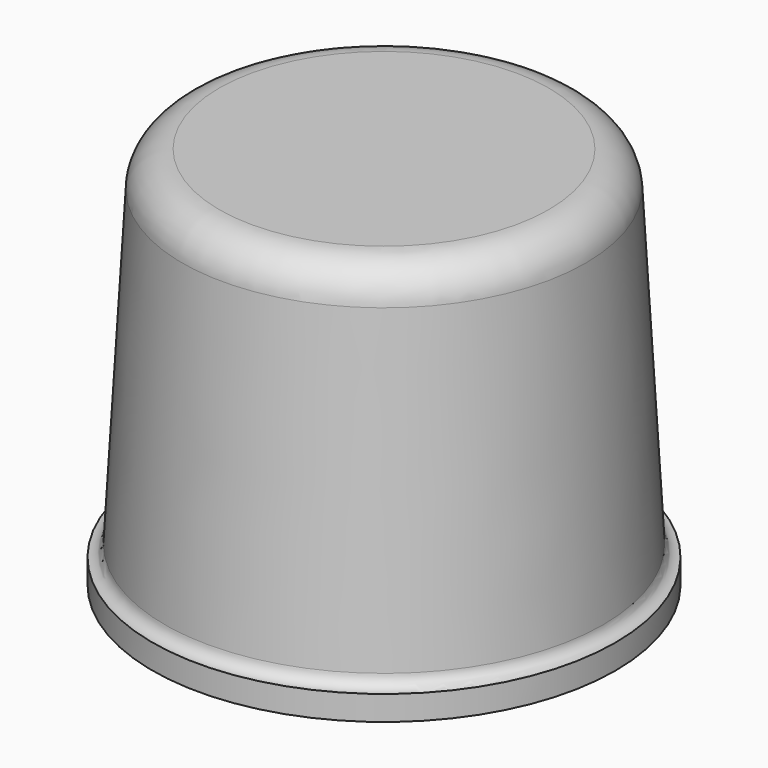
from build123d import *


with BuildPart() as f1:
    # F0 (on Front) → F1 (revolve)
    with BuildSketch(Plane.XZ):
        with BuildLine():
            Line((0, 0.508), (0, 0))
            Line((0, 0), (4.7625, 0))
            Line((4.7625, 0), (4.7625, 0.508))
            ThreePointArc((4.7625, 0.508), (4.58798, 0.57745), (4.508896, 0.747821))
            Line((4.508896, 0.747821), (4.149285, 7.179936))
            ThreePointArc((4.149285, 7.179936), (3.912034, 7.69105), (3.388473, 7.8994))
            Line((3.388473, 7.8994), (0, 7.8994))
            Line((0, 7.8994), (0, 0.508))
        make_face()
    revolve(axis=Axis((0, 0, 3.9497), (0, 0, 1)))


solid = f1.part
